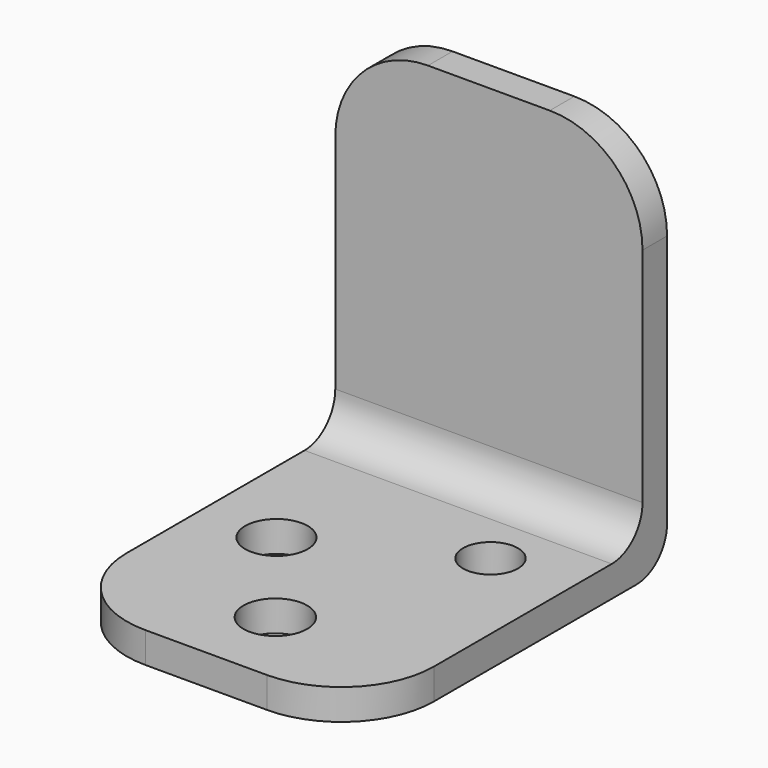
from build123d import *

# Parameters (mm, degrees)
F0_W     = 40
F0_H     = 50
F1_DEPTH = 4
F2_W     = 40
F2_H     = 50
F2_R     = 4.076244
F2_R_2   = 4.144667
F2_R_3   = 3.582064
F3_DEPTH = 4
F4_R     = 5
F5_R     = 5
F6_R     = 12.071068


with BuildPart() as f1:
    # F0 (on Front) → F1 (new body)
    with BuildSketch(Plane.XZ):
        with Locations((20, 25)):
            Rectangle(F0_W, F0_H)
    extrude(amount=F1_DEPTH)

    # F2 (on Top) → F3 (join)
    with BuildSketch(Plane.XY):
        with Locations((20, -25)):
            Rectangle(F2_W, F2_H)
        with Locations((9.746881, -25.751499)):
            Circle(F2_R, mode=Mode.SUBTRACT)
        with Locations((20.625249, -39.535552)):
            Circle(F2_R_2, mode=Mode.SUBTRACT)
        with Locations((29.604357, -15.743585)):
            Circle(F2_R_3, mode=Mode.SUBTRACT)
    extrude(amount=F3_DEPTH)

    # F4
    f4_edges = [f1.edges().sort_by_distance(p)[0] for p in [
        (20, -4, 4),
    ]]
    fillet(f4_edges, radius=F4_R)

    # F5
    f5_edges = [f1.edges().sort_by_distance(p)[0] for p in [
        (20, 0, 0),
    ]]
    fillet(f5_edges, radius=F5_R)

    # F6
    f6_edges = [f1.edges().sort_by_distance(p)[0] for p in [
        (0, -50, 2),
        (40, -50, 2),
        (40, -2, 50),
        (0, -2, 50),
    ]]
    fillet(f6_edges, radius=F6_R)


solid = f1.part
